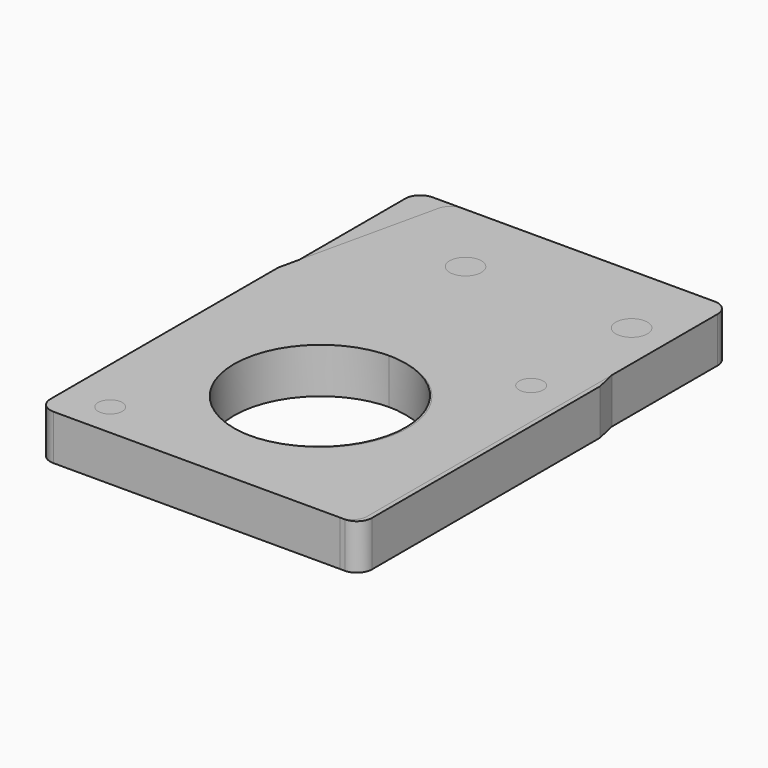
from build123d import *

# Parameters (mm, degrees)
F0_R     = 11.5
F0_R_2   = 1.6
F0_R_3   = 2.1
F1_DEPTH = 6


with BuildPart() as f1:
    # F0 (on Top) → F1 (new body)
    with BuildSketch(Plane.XY):
        with BuildLine():
            Line((14.705361, 13.578521), (-18.694024, 13.578521))
            ThreePointArc((-18.694024, 13.578521), (-20.108237, 12.992735), (-20.694024, 11.578521))
            Line((-20.694024, 11.578521), (-20.694024, -46.421479))
            ThreePointArc((-20.694024, -46.421479), (-20.108237, -47.835692), (-18.694024, -48.421479))
            Line((-18.694024, -48.421479), (19.305976, -48.421479))
            ThreePointArc((19.305976, -48.421479), (20.72019, -47.835692), (21.305976, -46.421479))
            Line((21.305976, -46.421479), (21.305976, -8.682704))
            Line((21.305976, -8.682704), (16.656745, 12.016813))
            ThreePointArc((16.656745, 12.016813), (15.955044, 13.140024), (14.705361, 13.578521))
        make_face()
        with Locations((-0.129063, -28.421479)):
            Circle(F0_R, mode=Mode.SUBTRACT)
        with Locations((15.370937, -43.921479)):
            Circle(F0_R_2, mode=Mode.SUBTRACT)
        with Locations((-15.629063, -12.974368)):
            Circle(F0_R_2, mode=Mode.SUBTRACT)
        with Locations((-15.694024, 3.578521)):
            Circle(F0_R_3, mode=Mode.SUBTRACT)
        with Locations((6.305976, 3.578521)):
            Circle(F0_R_3, mode=Mode.SUBTRACT)
    extrude(amount=F1_DEPTH)


with BuildPart() as f2_1:
    # F2: instance of F1
    add(f1.part.mirror(Plane.YZ))


solid = Compound([f1.part, f2_1.part])
